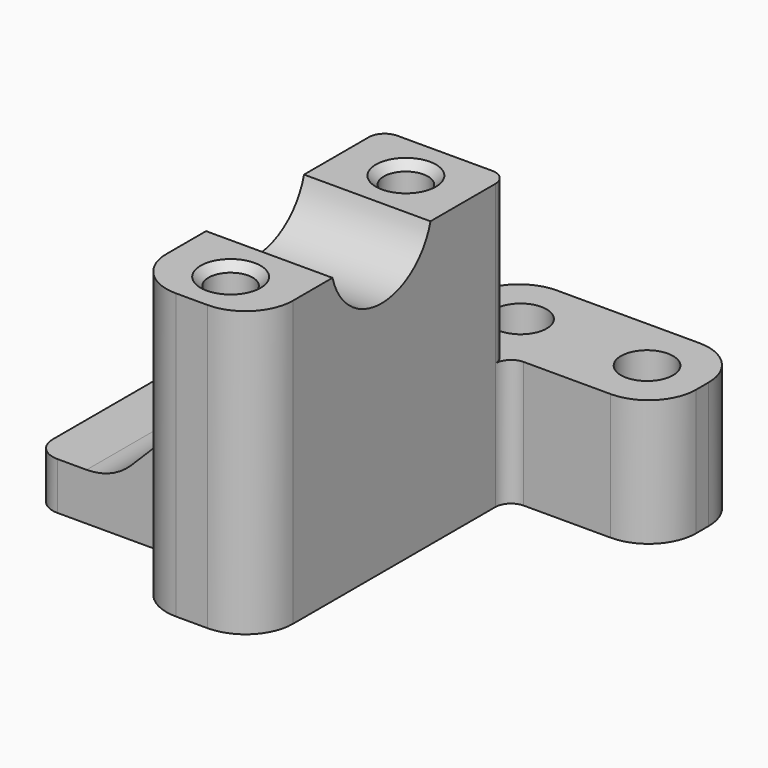
from build123d import *

# Parameters (mm, degrees)
SKETCH_W        = 15
SKETCH_H        = 7
SKETCH_R        = 1.65
PAD_DEPTH       = 8
SKETCH001_W     = 8
SKETCH001_H     = 8
PAD001_DEPTH    = 20
PAD002_DEPTH    = 8
SKETCH003_R     = 1.4
POCKET_DEPTH    = 10
CHAMFER_SIZE    = 0.5
FILLET_R        = 3
FILLET001_R     = 1
FILLET002_R     = 1
FILLET003_R     = 1
SKETCH007_W     = 12
SKETCH007_H     = 3
PAD004_DEPTH    = 10
CHAMFER001_SIZE = 5
FILLET005_R     = 4
FILLET006_R     = 1.5


with BuildPart() as part:
    # Sketch (on XY_Plane of Origin) → Pad (new body)
    with BuildSketch(Plane.XY):
        Rectangle(SKETCH_W, SKETCH_H)
        with Locations((-4, 0)):
            Circle(SKETCH_R, mode=Mode.SUBTRACT)
        with Locations((4, 0)):
            Circle(SKETCH_R, mode=Mode.SUBTRACT)
    extrude(amount=PAD_DEPTH)

    # Sketch001 (on Face2 of Pad) → Pad001 (join)
    with BuildSketch(Plane.XZ.offset(3.5)):
        with Locations((-6, 4)):
            Rectangle(SKETCH001_W, SKETCH001_H)
    extrude(amount=PAD001_DEPTH)

    # Sketch002 (on Face5 of Pad001) → Pad002 (join)
    with BuildSketch(Plane(origin=(-10, 0, 0), x_dir=(0, -1, 0), z_dir=(-1, 0, 0))):
        with BuildLine():
            Line((3.5, 8), (23.5, 8))
            Line((23.5, 8), (23.5, 18))
            Line((23.5, 18), (17.372983, 18))
            ThreePointArc((9.627017, 18), (13.5, 15), (17.372983, 18))
            Line((3.5, 18), (9.627017, 18))
            Line((3.5, 8), (3.5, 18))
        make_face()
    extrude(amount=-PAD002_DEPTH)

    # Sketch003 (on Face3 of Pad002) → Pocket (cut)
    with BuildSketch(Plane.XY.offset(18)):
        with Locations((-6, -6.57)):
            Circle(SKETCH003_R)
        with Locations((-6, -20.43)):
            Circle(SKETCH003_R)
    extrude(amount=-POCKET_DEPTH, mode=Mode.SUBTRACT)

    # Chamfer
    chamfer_edges = [part.edges().sort_by_distance(p)[0] for p in [
        (-7.4, -20.43, 18),
        (-7.4, -6.57, 18),
    ]]
    chamfer(chamfer_edges, length=CHAMFER_SIZE)

    # Fillet
    fillet_edges = [part.edges().sort_by_distance(p)[0] for p in [
        (-7.5, 3.5, 4),
        (7.5, 3.5, 4),
        (7.5, -3.5, 4),
        (-2, -23.5, 9),
        (-10, -23.5, 9),
    ]]
    fillet(fillet_edges, radius=FILLET_R)

    # Fillet001
    fillet001_edges = [part.edges().sort_by_distance(p)[0] for p in [
        (-7.5, -3.5, 4),
        (-10, -3.5, 9),
    ]]
    fillet(fillet001_edges, radius=FILLET001_R)

    # Fillet002
    fillet002_edges = [part.edges().sort_by_distance(p)[0] for p in [
        (-2, -3.5, 4),
    ]]
    fillet(fillet002_edges, radius=FILLET002_R)

    # Fillet003
    fillet003_edges = [part.edges().sort_by_distance(p)[0] for p in [
        (-2, -3.5, 13),
    ]]
    fillet(fillet003_edges, radius=FILLET003_R)

    # Sketch007 (on Face11 of Fillet003) → Pad004 (join)
    with BuildSketch(Plane(origin=(-10, 0, 0), x_dir=(0, -1, 0), z_dir=(-1, 0, 0))):
        with Locations((12.5, 1.5)):
            Rectangle(SKETCH007_W, SKETCH007_H)
    extrude(amount=PAD004_DEPTH)

    # Chamfer001
    chamfer001_edges = [part.edges().sort_by_distance(p)[0] for p in [
        (-10, -12.5, 3),
    ]]
    chamfer(chamfer001_edges, length=CHAMFER001_SIZE)

    # Fillet005
    fillet005_edges = [part.edges().sort_by_distance(p)[0] for p in [
        (-15, -12.5, 3),
    ]]
    fillet(fillet005_edges, radius=FILLET005_R)

    # Fillet006
    fillet006_edges = [part.edges().sort_by_distance(p)[0] for p in [
        (-20, -6.5, 1.5),
        (-10, -6.5, 1.5),
        (-10, -18.5, 1.5),
        (-10, -18.5, 5.5),
        (-20, -18.5, 1.5),
        (-10, -6.5, 5.5),
    ]]
    fillet(fillet006_edges, radius=FILLET006_R)


solid = part.part
